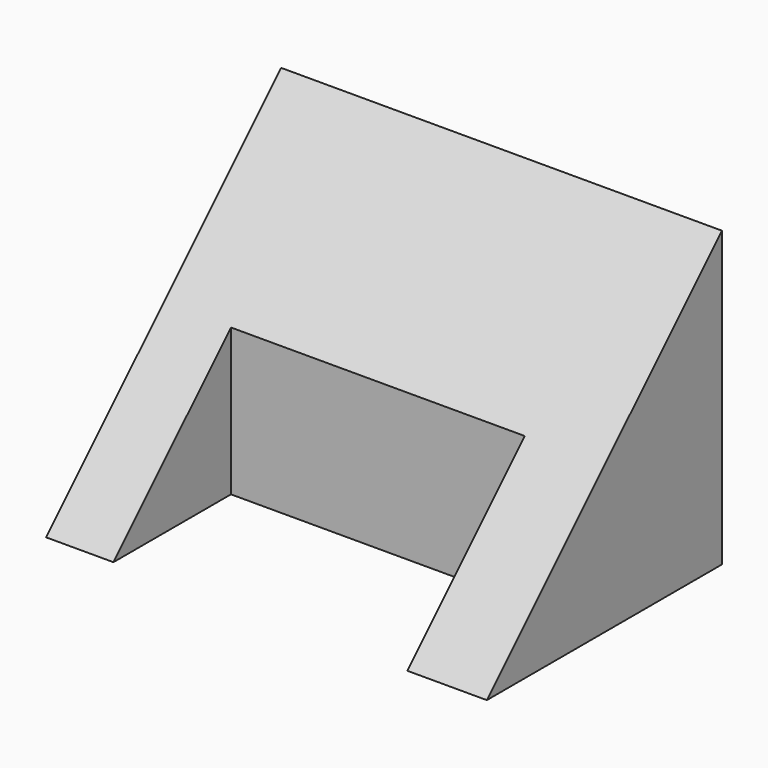
from build123d import *

# Parameters (mm, degrees)
F1_DEPTH = 19.05
F2_W     = 25.4
F2_H     = 12.7
F3_DEPTH = 25.401


with BuildPart() as f1:
    # F0 (on Right) → F1 (new body, symmetric)
    with BuildSketch(Plane.YZ):
        Polygon((-25.4, 0), (0, 0), (0, 25.4), align=None)
    extrude(amount=F1_DEPTH, both=True)

    # F2 (on Top) → F3 (cut, through all)
    with BuildSketch(Plane.XY):
        with Locations((-0.529166, -19.05)):
            Rectangle(F2_W, F2_H)
    extrude(amount=F3_DEPTH, mode=Mode.SUBTRACT)


solid = f1.part
